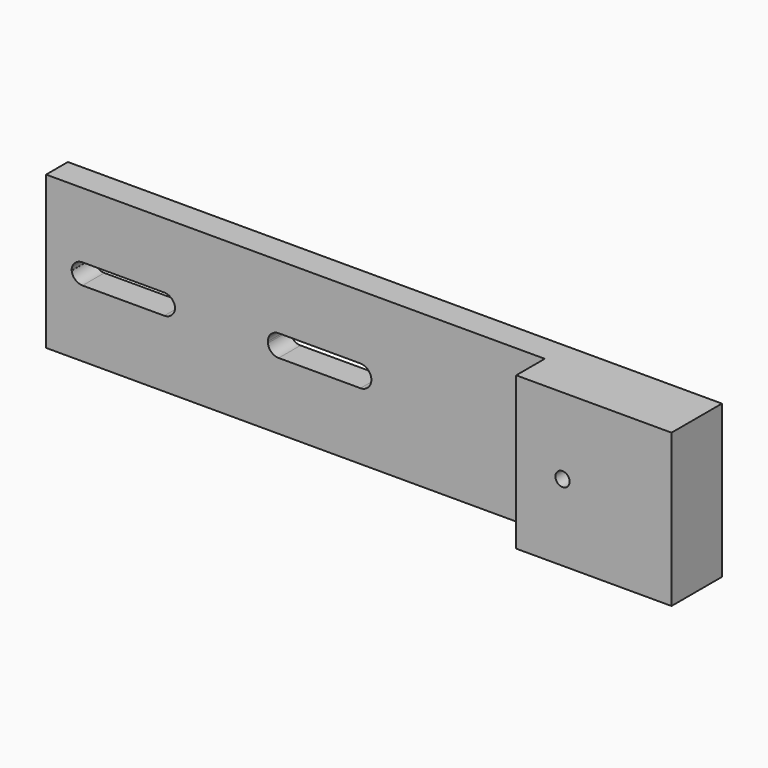
from build123d import *

# Parameters (mm, degrees)
F0_W     = 120
F0_H     = 28
F1_DEPTH = 5
F2_W     = 28.5
F2_H     = 28
F3_DEPTH = 6.56
F5_R     = 1.3
F6_DEPTH = 11.56
F7_DEPTH = 5
F8_R     = 3
F8_R_2   = 1.3
F9_DEPTH = 1.5


with BuildPart() as f1:
    # F0 (on Front) → F1 (new body)
    with BuildSketch(Plane.XZ):
        with Locations((60, 14)):
            Rectangle(F0_W, F0_H)
    extrude(amount=F1_DEPTH)

    # F2 (on face) → F3 (join)
    with BuildSketch(Plane.XZ.offset(5)):
        with Locations((105.75, 14)):
            Rectangle(F2_W, F2_H)
    extrude(amount=F3_DEPTH)

    # F5 (on face) → F6 (cut, through all)
    with BuildSketch(Plane.XZ.offset(11.56)):
        with Locations((100, 14)):
            Circle(F5_R)
    extrude(amount=-F6_DEPTH, mode=Mode.SUBTRACT)

    # F4 (on face) → F7 (cut, through all)
    with BuildSketch(Plane.XZ.offset(5)):
        with BuildLine():
            ThreePointArc((4.68391, 14.125), (4.680978, 14.062531), (4.68, 14))
            Line((4.68, 14), (4.695687, 14))
            ThreePointArc((4.695687, 14), (4.688817, 14.062408), (4.68391, 14.125))
        make_face()
        with BuildLine():
            ThreePointArc((40.68, 14.25), (40.683925, 14.124754), (40.695687, 14))
            Line((40.695687, 14), (59.664313, 14))
            ThreePointArc((59.664313, 14), (59.676075, 14.124754), (59.68, 14.25))
            ThreePointArc((59.68, 14.25), (59.094214, 15.664214), (57.68, 16.25))
            Line((57.68, 16.25), (42.68, 16.25))
            ThreePointArc((42.68, 16.25), (41.265786, 15.664214), (40.68, 14.25))
        make_face()
        with BuildLine():
            Line((59.664313, 14), (40.695687, 14))
            ThreePointArc((40.695687, 14), (41.357124, 12.75), (42.68, 12.25))
            Line((42.68, 12.25), (57.68, 12.25))
            ThreePointArc((57.68, 12.25), (59.002876, 12.75), (59.664313, 14))
        make_face()
        with BuildLine():
            Line((4.68, 14.25), (4.68, 14))
            ThreePointArc((4.68, 14), (4.680978, 14.062531), (4.68391, 14.125))
            ThreePointArc((4.68391, 14.125), (4.680978, 14.187469), (4.68, 14.25))
        make_face()
        with BuildLine():
            ThreePointArc((4.68391, 14.125), (4.688817, 14.062408), (4.695687, 14))
            Line((4.695687, 14), (23.664313, 14))
            ThreePointArc((23.664313, 14), (23.671183, 14.062408), (23.67609, 14.125))
            ThreePointArc((23.67609, 14.125), (23.049306, 15.457738), (21.68, 16))
            Line((21.68, 16), (6.68, 16))
            ThreePointArc((6.68, 16), (5.310694, 15.457738), (4.68391, 14.125))
        make_face()
        with BuildLine():
            Line((23.664313, 14), (4.695687, 14))
            ThreePointArc((4.695687, 14), (5.357124, 12.75), (6.68, 12.25))
            Line((6.68, 12.25), (21.68, 12.25))
            ThreePointArc((21.68, 12.25), (23.002876, 12.75), (23.664313, 14))
        make_face()
        with BuildLine():
            ThreePointArc((23.67609, 14.125), (23.671183, 14.062408), (23.664313, 14))
            Line((23.664313, 14), (23.68, 14))
            ThreePointArc((23.68, 14), (23.679022, 14.062531), (23.67609, 14.125))
        make_face()
        with BuildLine():
            ThreePointArc((23.67609, 14.125), (23.679022, 14.062531), (23.68, 14))
            Line((23.68, 14), (23.68, 14.25))
            ThreePointArc((23.68, 14.25), (23.679022, 14.187469), (23.67609, 14.125))
        make_face()
    extrude(amount=-F7_DEPTH, mode=Mode.SUBTRACT)

    # F8 (on face) → F9 (cut)
    with BuildSketch(Plane(origin=(0, 0, 0), x_dir=(-1, 0, 0), z_dir=(0, 1, 0))):
        with Locations((-100, 14)):
            Circle(F8_R)
        with Locations((-100, 14)):
            Circle(F8_R_2, mode=Mode.SUBTRACT)
    extrude(amount=-F9_DEPTH, mode=Mode.SUBTRACT)


solid = f1.part
